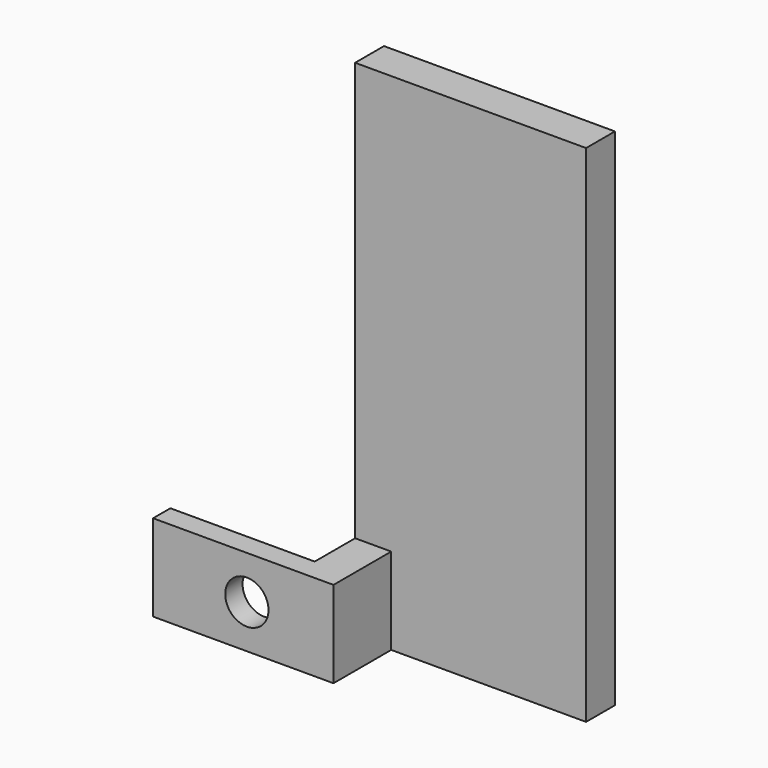
from build123d import *

# Parameters (mm, degrees)
SKETCH_W     = 32
SKETCH_H     = 5
PAD_DEPTH    = 12
SKETCH001_R  = 3
HOLE_DEPTH   = 15.001
SKETCH002_W  = 32
SKETCH002_H  = 5
PAD001_DEPTH = 70


with BuildPart() as part:
    # Sketch → Pad (new body)
    with BuildSketch(Plane.XY):
        Polygon((-20, -10), (5, -10), (5, 0), (0, 0), (0, -7), (-20, -7), align=None)
        with Locations((16, 2.5)):
            Rectangle(SKETCH_W, SKETCH_H)
    extrude(amount=PAD_DEPTH)

    # Sketch001 (on Face1 of Pad) → Hole (cut, through all)
    with BuildSketch(Plane.XZ.offset(10)):
        with Locations((-7, 6)):
            Circle(SKETCH001_R)
    extrude(amount=-HOLE_DEPTH, mode=Mode.SUBTRACT)

    # Sketch002 → Pad001 (join)
    with BuildSketch(Plane.XY):
        with Locations((16, 2.5)):
            Rectangle(SKETCH002_W, SKETCH002_H)
    extrude(amount=PAD001_DEPTH)


solid = part.part
